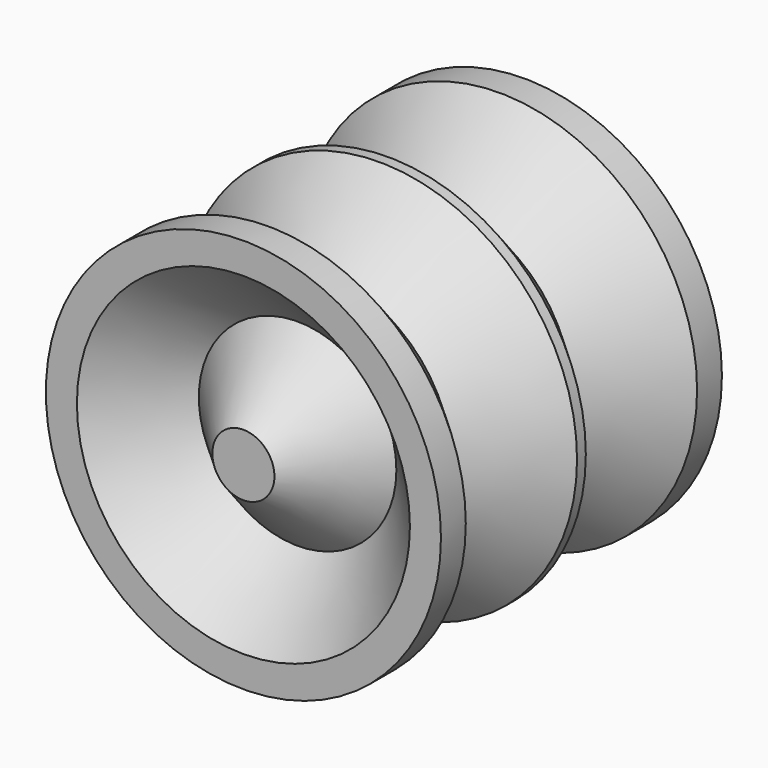
from build123d import *


with BuildPart() as f1:
    # F0 (on Top) → F1 (revolve)
    with BuildSketch(Plane.XY):
        Polygon((2.828427, 0), (0, 0), (0, -2.828427), (6.335786, -9.164214), (0, -15.5), (0, -16.5), (6.335786, -22.835786), (0, -29.171573), (0, -32), (2.828427, -32), (9, -25.828427), (15.171573, -32), (18, -32), (18, -29.171573), (11.664214, -22.835786), (18, -16.5), (18, -15.5), (11.664214, -9.164214), (18, -2.828427), (18, 0), (15.171573, 0), (9, -6.171573), align=None)
        Polygon((5.156854, -16), (9, -12.156854), (12.843146, -16), (9, -19.843146), align=None, mode=Mode.SUBTRACT)
    revolve(axis=Axis((0, -1.414214, 0), (0, 1, 0)))


solid = f1.part
